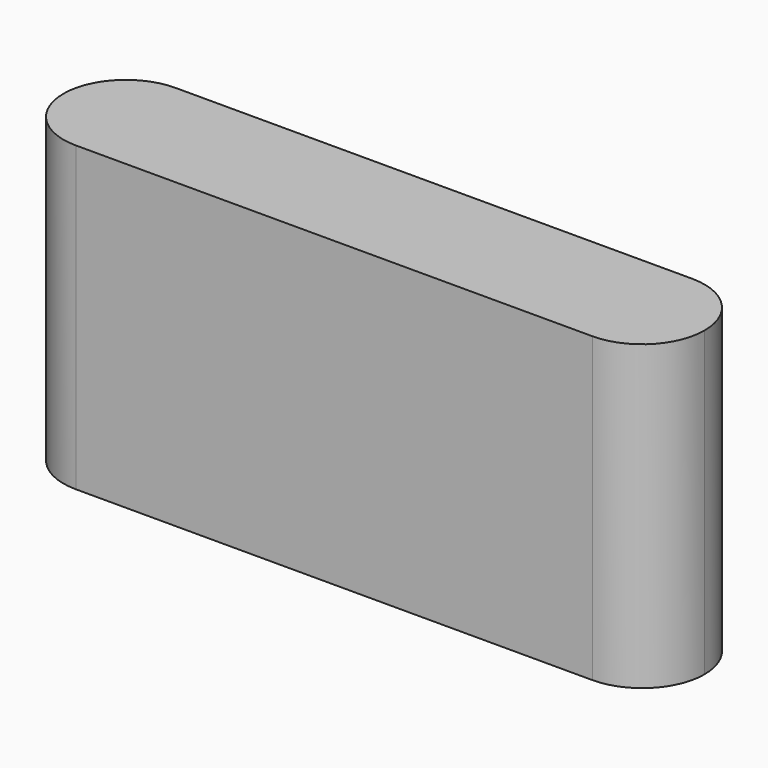
from build123d import *

# Parameters (mm, degrees)
F1_DEPTH = 34


with BuildPart() as f1:
    # F0 (on Top) → F1 (new body)
    with BuildSketch(Plane.XY):
        with BuildLine():
            ThreePointArc((-72, 7), (-69.949747, 2.050253), (-65, 0))
            ThreePointArc((-65, 0), (-60.050253, 2.050253), (-58, 7))
            ThreePointArc((-58, 7), (-60.050253, 11.949747), (-65, 14))
            ThreePointArc((-65, 14), (-69.949747, 11.949747), (-72, 7))
        make_face()
        with BuildLine():
            Line((-65, 0), (-7, 0))
            ThreePointArc((-7, 0), (-14, 7), (-7, 14))
            Line((-7, 14), (-65, 14))
            ThreePointArc((-65, 14), (-60.050253, 11.949747), (-58, 7))
            ThreePointArc((-58, 7), (-60.050253, 2.050253), (-65, 0))
        make_face()
        with BuildLine():
            ThreePointArc((-7, 14), (-14, 7), (-7, 0))
            ThreePointArc((-7, 0), (-2.050253, 2.050253), (0, 7))
            ThreePointArc((0, 7), (-2.050253, 11.949747), (-7, 14))
        make_face()
    extrude(amount=F1_DEPTH)


solid = f1.part
